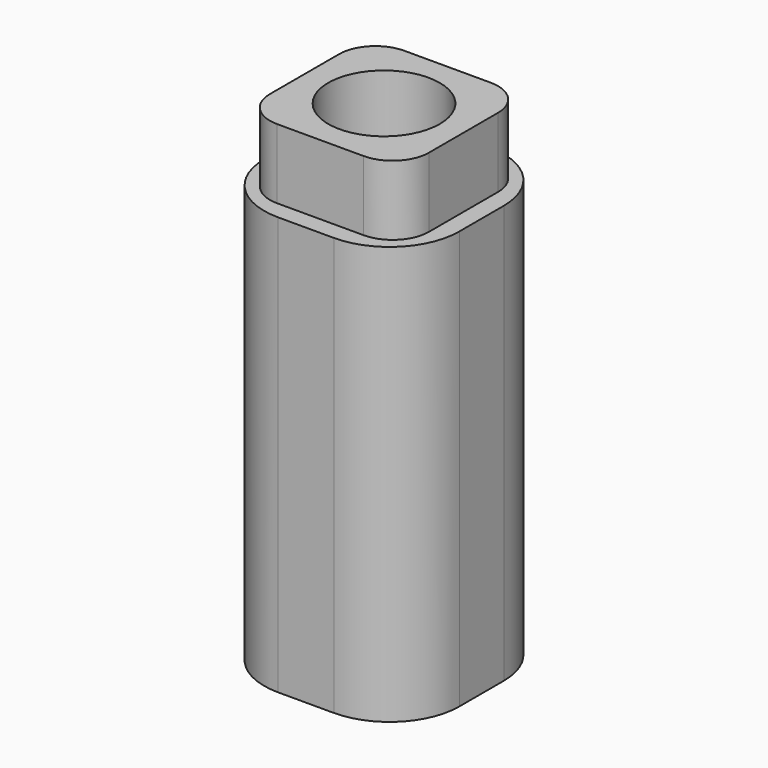
from build123d import *

# Parameters (mm, degrees)
F1_DEPTH = 30
F3_DEPTH = 5
F4_R     = 4
F5_DEPTH = 15
F6_R     = 6
F7_DEPTH = 20


with BuildPart() as f1:
    # F0 (on Top) → F1 (new body)
    with BuildSketch(Plane.XY):
        with BuildLine():
            ThreePointArc((7, 2), (5.535534, 5.535534), (2, 7))
            Line((2, 7), (-2, 7))
            ThreePointArc((-2, 7), (-5.535534, 5.535534), (-7, 2))
            Line((-7, 2), (-7, -2))
            ThreePointArc((-7, -2), (-5.535534, -5.535534), (-2, -7))
            Line((-2, -7), (2, -7))
            ThreePointArc((2, -7), (5.535534, -5.535534), (7, -2))
            Line((7, -2), (7, 2))
        make_face()
    extrude(amount=F1_DEPTH)

    # F2 (on face) → F3 (join)
    with BuildSketch(Plane.XY.offset(30)):
        with BuildLine():
            ThreePointArc((5.7, 3.1), (4.938478, 4.938478), (3.1, 5.7))
            Line((3.1, 5.7), (-3.1, 5.7))
            ThreePointArc((-3.1, 5.7), (-4.938478, 4.938478), (-5.7, 3.1))
            Line((-5.7, 3.1), (-5.7, -3.1))
            ThreePointArc((-5.7, -3.1), (-4.938478, -4.938478), (-3.1, -5.7))
            Line((-3.1, -5.7), (3.1, -5.7))
            ThreePointArc((3.1, -5.7), (4.938478, -4.938478), (5.7, -3.1))
            Line((5.7, -3.1), (5.7, 3.1))
        make_face()
    extrude(amount=F3_DEPTH)

    # F4 (on face) → F5 (cut)
    with BuildSketch(Plane.XY.offset(35)):
        Circle(F4_R)
    extrude(amount=-F5_DEPTH, mode=Mode.SUBTRACT)

    # F6 (on face) → F7 (cut)
    with BuildSketch(Plane(origin=(0, 0, 0), x_dir=(1, 0, 0), z_dir=(0, 0, -1))):
        Circle(F6_R)
    extrude(amount=-F7_DEPTH, mode=Mode.SUBTRACT)


solid = f1.part
